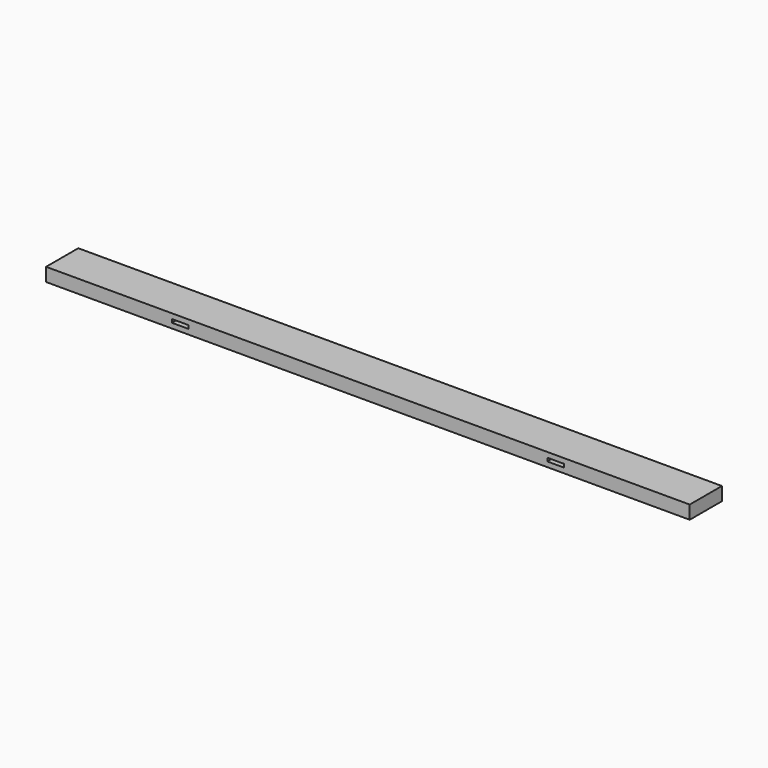
from build123d import *

# Parameters (mm, degrees)
F0_W     = 1219.2
F0_H     = 76.2
F1_DEPTH = 12.7
F2_W     = 31.75
F2_H     = 6.35
F3_DEPTH = 76.2
F4_DEPTH = 76.2


with BuildPart() as f1:
    # F0 (on Top) → F1 (new body, symmetric)
    with BuildSketch(Plane.XY):
        Rectangle(F0_W, F0_H)
    extrude(amount=F1_DEPTH, both=True)

    # F2 (on face) → F3 (cut, through all)
    with BuildSketch(Plane.XZ.offset(38.1)):
        with Locations((-355.6, 0)):
            Rectangle(F2_W, F2_H)
    extrude(amount=-F3_DEPTH, mode=Mode.SUBTRACT)

    # F2 (on face) → F4 (cut, through all)
    with BuildSketch(Plane.XZ.offset(38.1)):
        with Locations((355.6, 0)):
            Rectangle(F2_W, F2_H)
    extrude(amount=-F4_DEPTH, mode=Mode.SUBTRACT)


solid = f1.part
